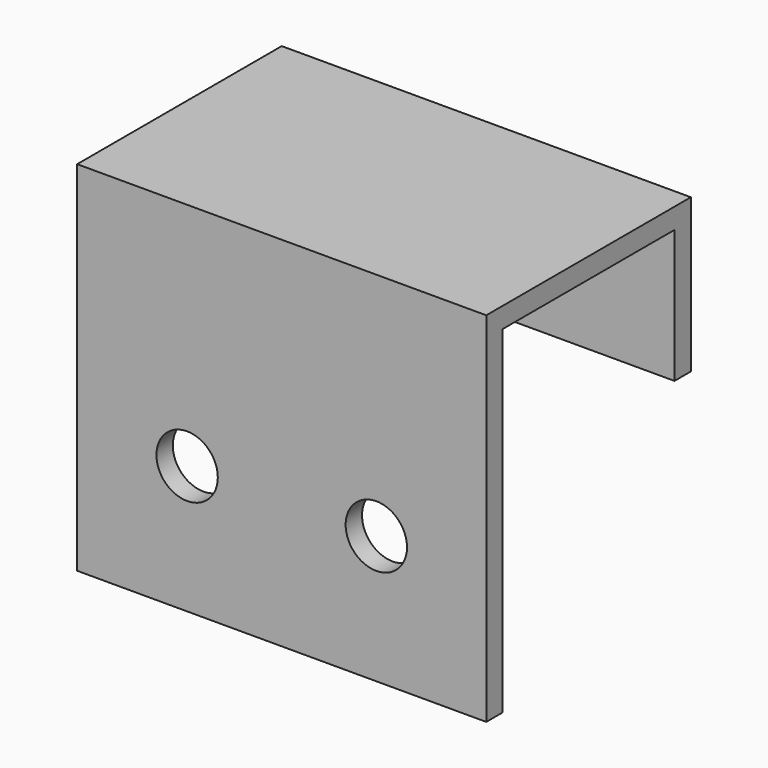
from build123d import *

# Parameters (mm, degrees)
PAD004_DEPTH = 20
SKETCH013_R  = 3
HOLE_DEPTH   = 25
HOLE_TIPS_R  = 3


with BuildPart() as part:
    # Sketch014 → Pad004 (new body, symmetric)
    with BuildSketch(Plane.YZ):
        Polygon((0, -35), (0, 0), (25, 0), (25, -15), (23, -15), (23, -2), (2, -2), (2, -35), align=None)
    extrude(amount=PAD004_DEPTH, both=True)

    # Sketch013 → Hole (cut)
    with BuildSketch(Plane.XZ):
        with Locations((-9.25, -22.5)):
            Circle(SKETCH013_R)
        with Locations((9.25, -22.5)):
            Circle(SKETCH013_R)
    extrude(amount=-HOLE_DEPTH, mode=Mode.SUBTRACT)

    # Hole tips → Hole tip 1 section 0
    with BuildSketch(Plane.XZ.offset(-25), mode=Mode.PRIVATE) as hole_tip_1_s0:
        with Locations((-9.25, -22.5)):
            Circle(HOLE_TIPS_R)
    loft([hole_tip_1_s0.sketch, Vertex(-9.25, 26.802582, -22.5)], mode=Mode.SUBTRACT)

    # Hole tips → Hole tip 2 section 0
    with BuildSketch(Plane.XZ.offset(-25), mode=Mode.PRIVATE) as hole_tip_2_s0:
        with Locations((9.25, -22.5)):
            Circle(HOLE_TIPS_R)
    loft([hole_tip_2_s0.sketch, Vertex(9.25, 26.802582, -22.5)], mode=Mode.SUBTRACT)


with BuildPart() as part_1:
    # Body009 placement: moved
    add(part.part.moved(Location((0, 83, 0))))


with BuildPart() as part_2:
    # Clone008 placement: moved
    add(part_1.part.moved(Location((0, -83, 0))))


with BuildPart() as part_3:
    # Body011 placement: moved
    add(part_2.part.moved(Location((-225, 83, 450))))


solid = part_3.part
